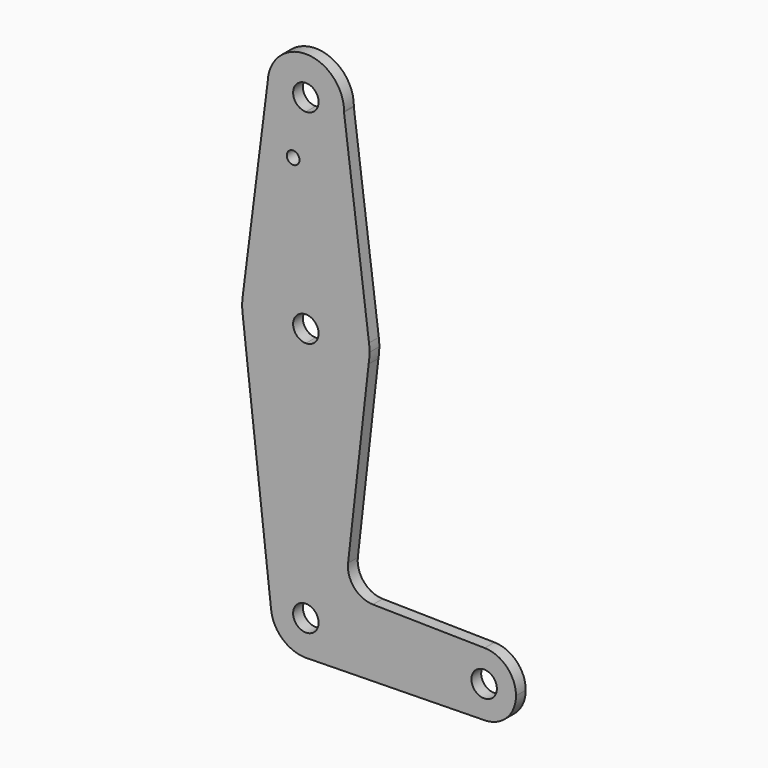
from build123d import *

# Parameters (mm, degrees)
F0_R     = 1.5875
F1_DEPTH = 3.048


with BuildPart() as f1:
    # F0 (on Front) → F1 (new body)
    with BuildSketch(Plane.XZ):
        with BuildLine():
            ThreePointArc((-93.4196161355, 425.3865762697), (-93.417768822, 425.4948700086), (-93.4171530243, 425.6031777519))
            ThreePointArc((-93.4171530243, 425.6031777519), (-102.78124438, 435.1268185162), (-112.4617164696, 425.9249491164))
            ThreePointArc((-112.4617164696, 425.9249491164), (-109.7901635838, 418.9827263793), (-102.9421530243, 416.0781777519))
            ThreePointArc((-102.9421530243, 416.0781777519), (-96.2839815079, 418.7918359561), (-93.4196161355, 425.3865762697))
        make_face()
        with BuildLine():
            ThreePointArc((-99.7671530243, 425.6031777519), (-100.697088994, 423.3581137216), (-102.9421530243, 422.4281777519))
            ThreePointArc((-102.9421530243, 422.4281777519), (-105.1872170545, 427.8482417821), (-99.7671530243, 425.6031777519))
        make_face(mode=Mode.SUBTRACT)
        with BuildLine():
            ThreePointArc((-102.9421530243, 416.0781777519), (-109.7901635838, 418.9827263793), (-112.4617164696, 425.9249491164))
            Line((-112.4617164696, 425.9249491164), (-118.6910382761, 376.8002351684))
            ThreePointArc((-118.6910382761, 376.8002351684), (-113.4376839425, 386.7136544738), (-102.9421530243, 390.6781777519))
            Line((-102.9421530243, 390.6781777519), (-102.9421530243, 416.0781777519))
        make_face()
        with Locations((-106.1171530243, 411.3283777519)):
            Circle(F0_R, mode=Mode.SUBTRACT)
        with BuildLine():
            Line((-87.1959230599, 376.8210644953), (-93.4196161355, 425.3865762697))
            ThreePointArc((-93.4196161355, 425.3865762697), (-96.2839815079, 418.7918359561), (-102.9421530243, 416.0781777519))
            Line((-102.9421530243, 416.0781777519), (-102.9421530243, 390.6781777519))
            ThreePointArc((-102.9421530243, 390.6781777519), (-92.4545014056, 386.7205930977), (-87.1959230599, 376.8210644953))
        make_face()
        with BuildLine():
            ThreePointArc((-102.9421530243, 390.6781777519), (-113.4376839425, 386.7136544738), (-118.6910382761, 376.8002351684))
            ThreePointArc((-118.6910382761, 376.8002351684), (-118.8171530243, 374.8031777519), (-118.6910382761, 372.8061203353))
            ThreePointArc((-118.6910382761, 372.8061203353), (-113.4376839425, 362.8927010299), (-102.9421530243, 358.9281777519))
            Line((-102.9421530243, 358.9281777519), (-102.9421530243, 371.6281777519))
            ThreePointArc((-102.9421530243, 371.6281777519), (-106.1171530243, 374.8031777519), (-102.9421530243, 377.9781777519))
            Line((-102.9421530243, 377.9781777519), (-102.9421530243, 390.6781777519))
        make_face()
        with BuildLine():
            ThreePointArc((-87.0671530243, 374.8031777519), (-87.0993782407, 375.8141733789), (-87.1959230599, 376.8210644953))
            ThreePointArc((-87.1959230599, 376.8210644953), (-92.4545014056, 386.7205930977), (-102.9421530243, 390.6781777519))
            Line((-102.9421530243, 390.6781777519), (-102.9421530243, 377.9781777519))
            ThreePointArc((-102.9421530243, 377.9781777519), (-100.697088994, 377.0482417821), (-99.7671530243, 374.8031777519))
            ThreePointArc((-99.7671530243, 374.8031777519), (-100.697088994, 372.5581137216), (-102.9421530243, 371.6281777519))
            Line((-102.9421530243, 371.6281777519), (-102.9421530243, 358.9281777519))
            ThreePointArc((-102.9421530243, 358.9281777519), (-92.7000921491, 362.6740469492), (-87.2914700581, 372.1439019687))
            ThreePointArc((-87.2914700581, 372.1439019687), (-87.1233316856, 373.4688178096), (-87.0671530243, 374.8031777519))
        make_face()
        with BuildLine():
            ThreePointArc((-102.9421530243, 358.9281777519), (-113.4376839425, 362.8927010299), (-118.6910382761, 372.8061203353))
            Line((-118.6910382761, 372.8061203353), (-111.6024586205, 310.3207199981))
            ThreePointArc((-111.6024586205, 310.3207199981), (-109.4432711935, 317.1084838426), (-102.9421530243, 320.0190320564))
            Line((-102.9421530243, 320.0190320564), (-102.9421530243, 358.9281777519))
        make_face()
        with BuildLine():
            ThreePointArc((-87.2914700581, 372.1439019687), (-92.7000921491, 362.6740469492), (-102.9421530243, 358.9281777519))
            Line((-102.9421530243, 358.9281777519), (-102.9421530243, 320.0190320564))
            ThreePointArc((-102.9421530243, 320.0190320564), (-96.7791133417, 317.4662174344), (-94.2262987198, 311.3031777519))
            Line((-94.2262987198, 311.3031777519), (-66.4296530243, 311.3031777519))
            ThreePointArc((-66.4296530243, 311.3031777519), (-64.0555398622, 316.9646822464), (-58.3533990044, 319.2394648921))
            Line((-58.3533990044, 319.2394648921), (-86.2209617601, 319.7266872276))
            ThreePointArc((-86.2209617601, 319.7266872276), (-90.8824123615, 321.8869003335), (-92.4197515066, 326.78916825))
            Line((-92.4197515066, 326.78916825), (-87.2914700581, 372.1439019687))
        make_face()
        with BuildLine():
            ThreePointArc((-102.9421530243, 320.0190320564), (-109.4432711935, 317.1084838426), (-111.6024586205, 310.3207199981))
            ThreePointArc((-111.6024586205, 310.3207199981), (-108.8430840328, 304.8887308162), (-103.2002341208, 302.5911452447))
            Line((-103.2002341208, 302.5911452447), (-102.3829209523, 302.6052828486))
            ThreePointArc((-102.3829209523, 302.6052828486), (-96.5844686377, 305.3411340169), (-94.2262987198, 311.3031777519))
            Line((-94.2262987198, 311.3031777519), (-99.7671530243, 311.3031777519))
            ThreePointArc((-99.7671530243, 311.3031777519), (-105.1872170545, 309.0581137216), (-102.9421530243, 314.4781777519))
            Line((-102.9421530243, 314.4781777519), (-102.9421530243, 320.0190320564))
        make_face()
        with BuildLine():
            Line((-102.3829209523, 302.6052828486), (-103.2002341208, 302.5911452447))
            ThreePointArc((-103.2002341208, 302.5911452447), (-102.7914117046, 302.5886270857), (-102.3829209523, 302.6052828486))
        make_face()
        with BuildLine():
            Line((-66.4296530243, 311.3031777519), (-94.2262987198, 311.3031777519))
            ThreePointArc((-94.2262987198, 311.3031777519), (-96.5844686377, 305.3411340169), (-102.3829209523, 302.6052828486))
            Line((-102.3829209523, 302.6052828486), (-58.3548733976, 303.3668649711))
            ThreePointArc((-58.3548733976, 303.3668649711), (-64.0560657309, 305.6421900603), (-66.4296530243, 311.3031777519))
        make_face()
        with BuildLine():
            ThreePointArc((-58.3533990044, 319.2394648921), (-64.0555398622, 316.9646822464), (-66.4296530243, 311.3031777519))
            ThreePointArc((-66.4296530243, 311.3031777519), (-64.0560657309, 305.6421900603), (-58.3548733976, 303.3668649711))
            ThreePointArc((-58.3548733976, 303.3668649711), (-52.8311653328, 305.7392650453), (-50.5546530243, 311.3031777519))
            ThreePointArc((-50.5546530243, 311.3031777519), (-52.8306485298, 316.8665645898), (-58.3533990044, 319.2394648921))
        make_face()
        with BuildLine():
            ThreePointArc((-55.3171530243, 311.3031777519), (-58.4921530243, 308.1281777519), (-61.6671530243, 311.3031777519))
            ThreePointArc((-61.6671530243, 311.3031777519), (-58.4921530243, 314.4781777519), (-55.3171530243, 311.3031777519))
        make_face(mode=Mode.SUBTRACT)
        with BuildLine():
            ThreePointArc((-94.2262987198, 311.3031777519), (-96.7791133417, 317.4662174344), (-102.9421530243, 320.0190320564))
            Line((-102.9421530243, 320.0190320564), (-102.9421530243, 314.4781777519))
            ThreePointArc((-102.9421530243, 314.4781777519), (-100.697088994, 313.5482417821), (-99.7671530243, 311.3031777519))
            Line((-99.7671530243, 311.3031777519), (-94.2262987198, 311.3031777519))
        make_face()
    extrude(amount=F1_DEPTH)


solid = f1.part
